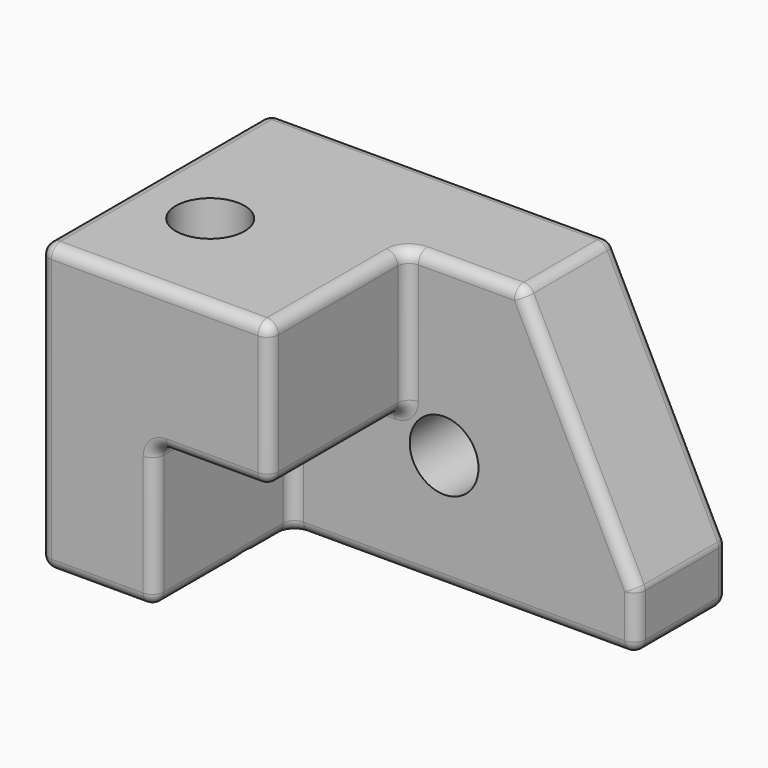
from build123d import *

# Parameters (mm, degrees)
F0_W          = 203.2
F0_H          = 127
F1_DEPTH      = 127
F3_DEPTH      = 76.2
F4_SIZE2      = 101.6
F4_SIZE       = 50.8
F5_R          = 5.08
F6_R          = 15.24
F7_DEPTH      = 101.6
F7_DEPTH_BACK = 101.6
F8_R          = 15.24
F9_DEPTH      = 127
F9_DEPTH_BACK = 127


with BuildPart() as f1:
    # F0 (on Front) → F1 (new body)
    with BuildSketch(Plane.XZ):
        Rectangle(F0_W, F0_H)
    extrude(amount=F1_DEPTH)

    # F2 (on face) → F3 (cut)
    with BuildSketch(Plane.XZ.offset(127)):
        Polygon((101.6, 63.5), (0, 63.5), (0, 0), (-50.8298836648, 0), (-50.8298836648, -63.5), (101.6, -63.5), align=None)
    extrude(amount=-F3_DEPTH, mode=Mode.SUBTRACT)

    # F4
    f4_edges = [f1.edges().sort_by_distance(p)[0] for p in [
        (101.6, -25.4, 63.5),
    ]]
    f4_side = f1.faces().sort_by_distance((-21.771429, -52.614286, 63.5))[0]
    chamfer(f4_edges, length=F4_SIZE, length2=F4_SIZE2, reference=f4_side)

    # F5
    f5_edges = [f1.edges().sort_by_distance(p)[0] for p in [
        (-25.4, 0, 63.5),
        (50.8, -25.4, 63.5),
        (-101.6, -63.5, 63.5),
        (25.4, -50.8, 63.5),
        (-50.8, -127, 63.5),
        (0, -88.9, 63.5),
        (-76.214942, -127, -63.5),
        (-101.6, -127, 0),
        (0, -127, 31.75),
        (-25.414942, -127, 0),
        (-50.829884, -127, -31.75),
        (0, -88.9, 0),
        (0, -50.8, 31.75),
        (-50.829884, -88.9, 0),
        (-50.829884, -88.9, -63.5),
        (-50.829884, -50.8, -31.75),
        (76.2, -50.8, 12.7),
        (101.6, -50.8, -50.8),
        (-25.414942, -50.8, 0),
        (25.385058, -50.8, -63.5),
        (76.2, 0, 12.7),
        (101.6, -25.4, -38.1),
        (101.6, 0, -50.8),
        (101.6, -25.4, -63.5),
        (-101.6, -63.5, -63.5),
        (-101.6, 0, 0),
        (0, 0, -63.5),
    ]]
    fillet(f5_edges, radius=F5_R)

    # F6 (on face) → F7 (cut, two sides)
    with BuildSketch(Plane.XZ.offset(50.8)) as f7_sk:
        with Locations((16.4750218391, -12.237187475)):
            Circle(F6_R)
    extrude(amount=-F7_DEPTH, mode=Mode.SUBTRACT)
    extrude(f7_sk.sketch, amount=F7_DEPTH_BACK, mode=Mode.SUBTRACT)

    # F8 (on face) → F9 (cut, two sides)
    with BuildSketch(Plane.XY.offset(63.5)) as f9_sk:
        with Locations((-66.8318793178, -76.2298852205)):
            Circle(F8_R)
    extrude(amount=F9_DEPTH, mode=Mode.SUBTRACT)
    extrude(f9_sk.sketch, amount=-F9_DEPTH_BACK, mode=Mode.SUBTRACT)


solid = f1.part
